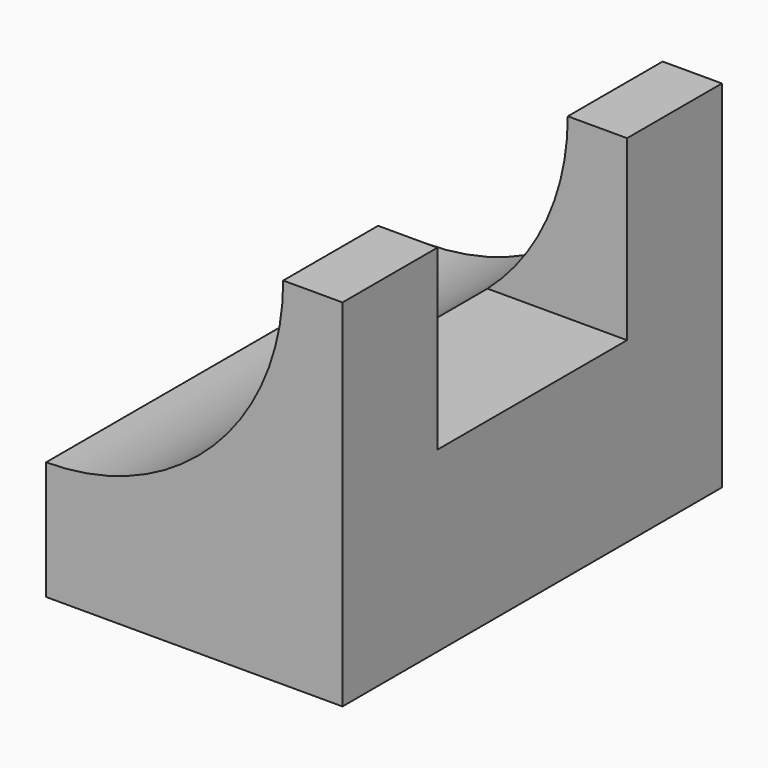
from build123d import *

# Parameters (mm, degrees)
F1_DEPTH = 50.8
F2_W     = 25.4
F2_H     = 19.05
F3_DEPTH = 25.4


with BuildPart() as f1:
    # F0 (on Front) → F1 (new body)
    with BuildSketch(Plane.XZ):
        with BuildLine():
            ThreePointArc((25.4, 38.1), (17.960512, 20.139488), (0, 12.7))
            Line((0, 12.7), (25.4, 12.7))
            Line((25.4, 12.7), (25.4, 38.1))
        make_face()
        Polygon((0, 12.7), (0, 0), (31.75, 0), (31.75, 38.1), (25.4, 38.1), (25.4, 12.7), align=None)
    extrude(amount=F1_DEPTH)

    # F2 (on face) → F3 (cut)
    with BuildSketch(Plane.YZ.offset(31.75)):
        with Locations((-25.4, 28.575)):
            Rectangle(F2_W, F2_H)
    extrude(amount=-F3_DEPTH, mode=Mode.SUBTRACT)


solid = f1.part
